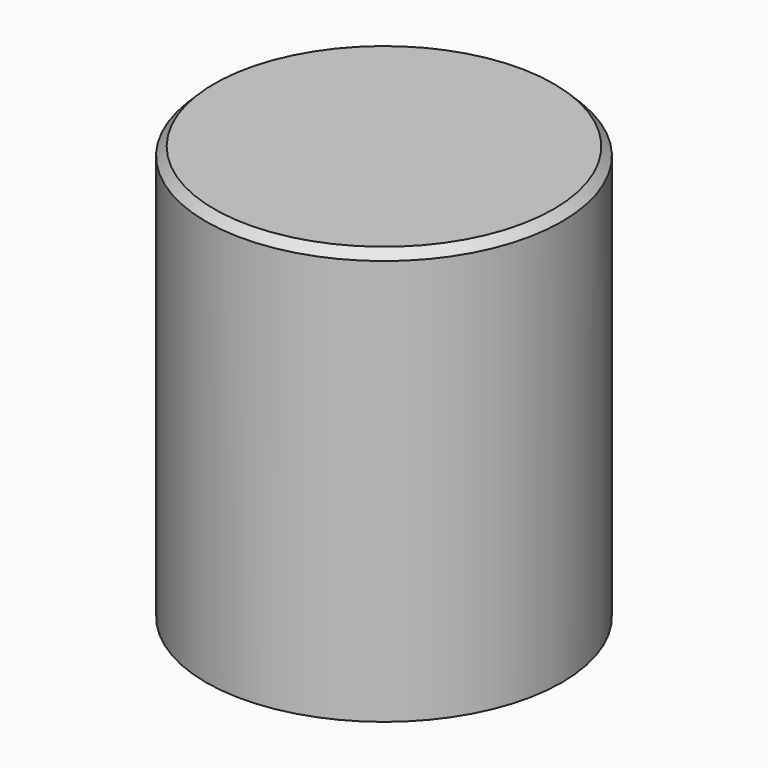
from build123d import *

# Parameters (mm, degrees)
F0_R     = 10.75
F0_R_2   = 8
F1_DEPTH = 25
F2_DEPTH = 2
F3_SIZE  = 0.5


with BuildPart() as f1:
    # F0 (on Top) → F1 (new body)
    with BuildSketch(Plane.XY):
        Circle(F0_R)
        Circle(F0_R_2, mode=Mode.SUBTRACT)
        Circle(F0_R_2)
    extrude(amount=F1_DEPTH)

    # F0 (on Top) → F2 (cut)
    with BuildSketch(Plane.XY):
        Circle(F0_R_2)
    extrude(amount=F2_DEPTH, mode=Mode.SUBTRACT)

    # F3
    f3_edges = [f1.edges().sort_by_distance(p)[0] for p in [
        (-10.75, 0, 25),
    ]]
    chamfer(f3_edges, length=F3_SIZE)


solid = f1.part
